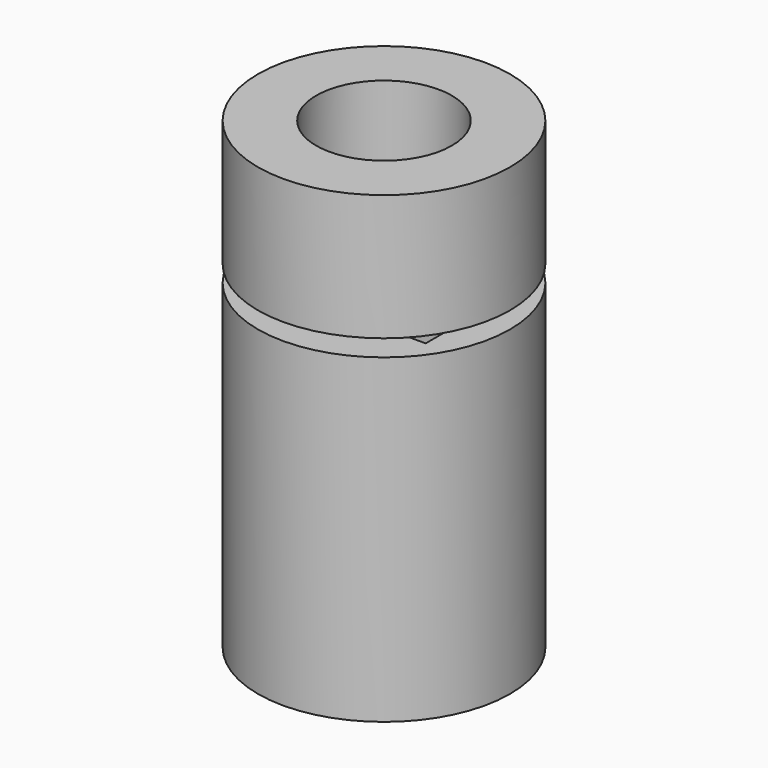
from build123d import *

# Parameters (mm, degrees)
F0_R     = 19.05
F0_W     = 27
F0_H     = 18
F1_DEPTH = 48.5
F3_R     = 19.05
F3_R_2   = 10.25
F4_DEPTH = 19.05


with BuildPart() as f1:
    # F0 (on Top) → F1 (new body)
    with BuildSketch(Plane.XY):
        Circle(F0_R)
        Rectangle(F0_W, F0_H, mode=Mode.SUBTRACT)
    extrude(amount=F1_DEPTH)


with BuildPart() as f4:
    # F3 (on offset) → F4 (new body)
    with BuildSketch(Plane.XY.offset(51.04)):
        Circle(F3_R)
        Circle(F3_R_2, mode=Mode.SUBTRACT)
    extrude(amount=F4_DEPTH)


solid = Compound([f1.part, f4.part])
